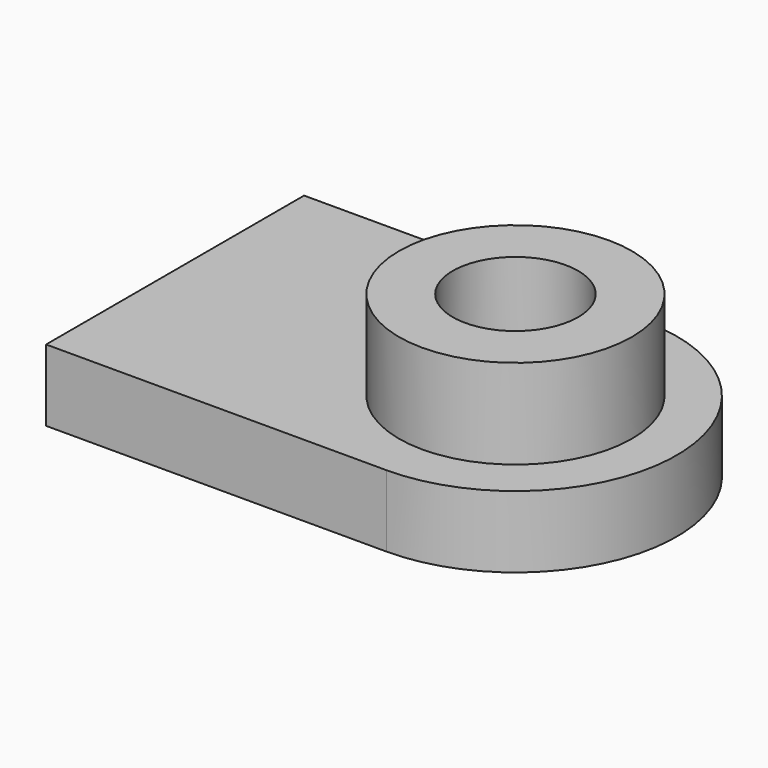
from build123d import *

# Parameters (mm, degrees)
F0_W     = 95
F0_H     = 90
F1_DEPTH = 20
F2_R     = 32.5
F3_DEPTH = 25
F4_R     = 17.5
F5_DEPTH = 25


with BuildPart() as f1:
    # F0 (on Top) → F1 (new body)
    with BuildSketch(Plane.XY):
        with Locations((-1.046643, 7.062163)):
            Rectangle(F0_W, F0_H)
        with BuildLine():
            ThreePointArc((46.453357, -37.937837), (91.453357, 7.062163), (46.453357, 52.062163))
            Line((46.453357, 52.062163), (46.453357, -37.937837))
        make_face()
    extrude(amount=F1_DEPTH)

    # F2 (on face) → F3 (join)
    with BuildSketch(Plane.XY.offset(20)):
        with Locations((46.453357, 7.062163)):
            Circle(F2_R)
    extrude(amount=F3_DEPTH)

    # F4 (on face) → F5 (cut)
    with BuildSketch(Plane.XY.offset(45)):
        with Locations((46.453357, 7.062163)):
            Circle(F4_R)
    extrude(amount=-F5_DEPTH, mode=Mode.SUBTRACT)


solid = f1.part
